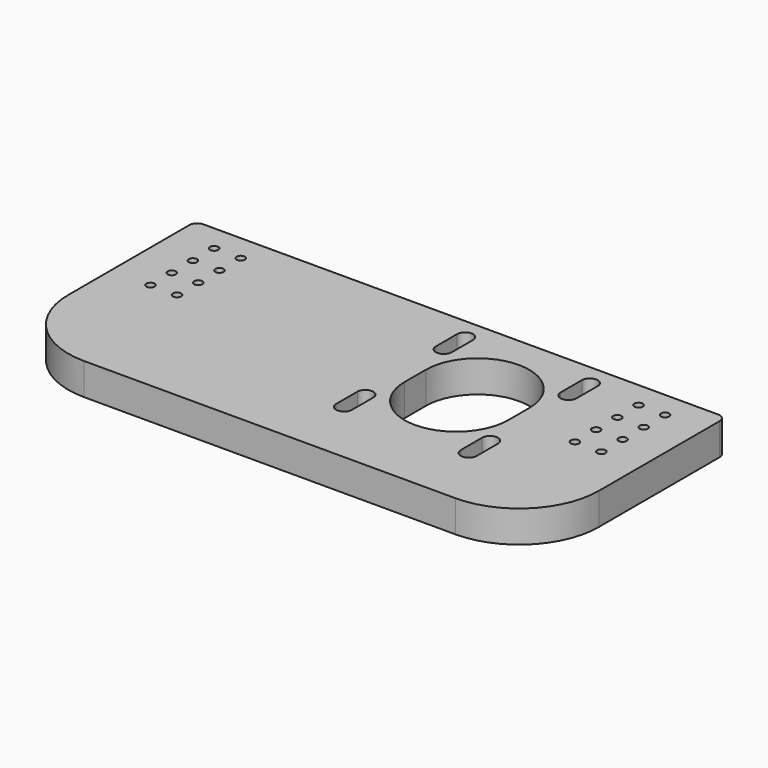
from build123d import *

# Parameters (mm, degrees)
SKETCH_W    = 200
SKETCH_H    = 90
SKETCH_R    = 1.5625
PAD_DEPTH   = 12
FILLET_R    = 30
FILLET001_R = 3


with BuildPart() as part:
    # Sketch → Pad (new body)
    with BuildSketch(Plane.XY):
        with Locations((100, -45)):
            Rectangle(SKETCH_W, SKETCH_H)
        with Locations((175, -10)):
            Circle(SKETCH_R, mode=Mode.SUBTRACT)
        with Locations((175, -30)):
            Circle(SKETCH_R, mode=Mode.SUBTRACT)
        with Locations((185, -20)):
            Circle(SKETCH_R, mode=Mode.SUBTRACT)
        with Locations((185, -40)):
            Circle(SKETCH_R, mode=Mode.SUBTRACT)
        with Locations((25, -10)):
            Circle(SKETCH_R, mode=Mode.SUBTRACT)
        with Locations((25, -30)):
            Circle(SKETCH_R, mode=Mode.SUBTRACT)
        with Locations((15, -20)):
            Circle(SKETCH_R, mode=Mode.SUBTRACT)
        with Locations((15, -40)):
            Circle(SKETCH_R, mode=Mode.SUBTRACT)
        with Locations((185, -10)):
            Circle(SKETCH_R, mode=Mode.SUBTRACT)
        with Locations((175, -20)):
            Circle(SKETCH_R, mode=Mode.SUBTRACT)
        with Locations((185, -30)):
            Circle(SKETCH_R, mode=Mode.SUBTRACT)
        with Locations((175, -40)):
            Circle(SKETCH_R, mode=Mode.SUBTRACT)
        with Locations((15, -10)):
            Circle(SKETCH_R, mode=Mode.SUBTRACT)
        with Locations((25, -20)):
            Circle(SKETCH_R, mode=Mode.SUBTRACT)
        with Locations((15, -30)):
            Circle(SKETCH_R, mode=Mode.SUBTRACT)
        with Locations((25, -40)):
            Circle(SKETCH_R, mode=Mode.SUBTRACT)
        with BuildLine():
            ThreePointArc((158.0113, -7.9887), (155.0113, -4.9887), (152.0113, -7.9887))
            Line((152.0113, -7.9887), (152.0113, -17.9887))
            ThreePointArc((152.0113, -17.9887), (155.0113, -20.9887), (158.0113, -17.9887))
            Line((158.0113, -7.9887), (158.0113, -17.9887))
        make_face(mode=Mode.SUBTRACT)
        with BuildLine():
            ThreePointArc((151, -31.5), (131.5, -12), (112, -31.5))
            Line((112, -31.5), (112, -41.5))
            ThreePointArc((112, -41.5), (131.5, -61), (151, -41.5))
            Line((151, -31.5), (151, -41.5))
        make_face(mode=Mode.SUBTRACT)
        with BuildLine():
            ThreePointArc((158.0113, -55.0113), (155.0113, -52.0113), (152.0113, -55.0113))
            Line((152.0113, -55.0113), (152.0113, -65.0113))
            ThreePointArc((152.0113, -65.0113), (155.0113, -68.0113), (158.0113, -65.0113))
            Line((158.0113, -55.0113), (158.0113, -65.0113))
        make_face(mode=Mode.SUBTRACT)
        with BuildLine():
            ThreePointArc((110.9887, -55.0113), (107.9887, -52.0113), (104.9887, -55.0113))
            Line((104.9887, -55.0113), (104.9887, -65.0113))
            ThreePointArc((104.9887, -65.0113), (107.9887, -68.0113), (110.9887, -65.0113))
            Line((110.9887, -55.0113), (110.9887, -65.0113))
        make_face(mode=Mode.SUBTRACT)
        with BuildLine():
            ThreePointArc((110.9887, -7.9887), (107.9887, -4.9887), (104.9887, -7.9887))
            Line((104.9887, -7.9887), (104.9887, -17.9887))
            ThreePointArc((104.9887, -17.9887), (107.9887, -20.9887), (110.9887, -17.9887))
            Line((110.9887, -7.9887), (110.9887, -17.9887))
        make_face(mode=Mode.SUBTRACT)
    extrude(amount=PAD_DEPTH)

    # Fillet
    fillet_edges = [part.edges().sort_by_distance(p)[0] for p in [
        (0, -90, 6),
        (200, -90, 6),
    ]]
    fillet(fillet_edges, radius=FILLET_R)

    # Fillet001
    fillet001_edges = [part.edges().sort_by_distance(p)[0] for p in [
        (200, 0, 6),
        (0, 0, 6),
    ]]
    fillet(fillet001_edges, radius=FILLET001_R)


solid = part.part
